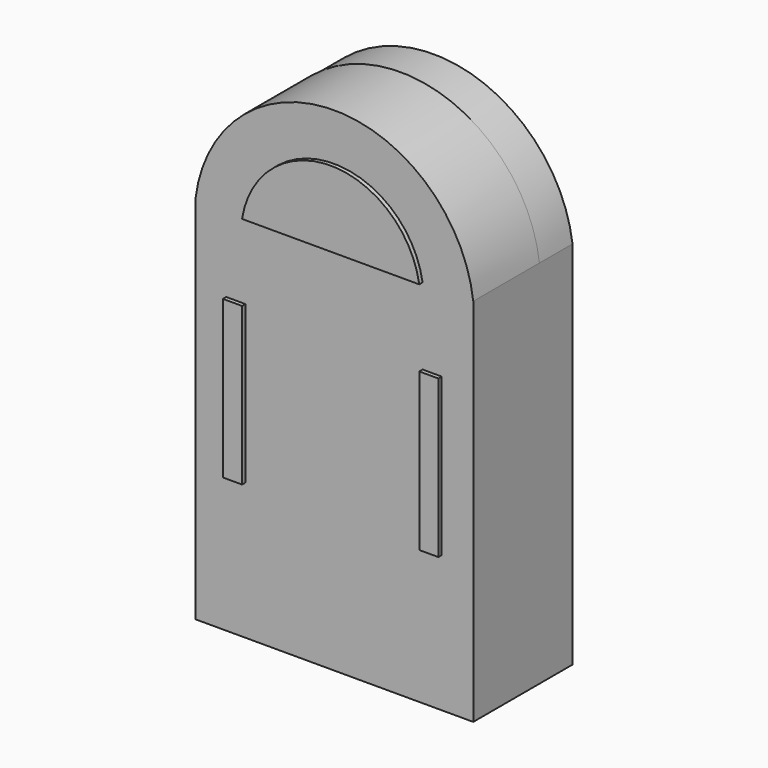
from build123d import *

# Parameters (mm, degrees)
F1_DEPTH = 25.4
F3_DEPTH = 12.7
F4_W     = 5.8812871575
F4_H     = 48.275558278
F4_W_2   = 5.8812852949
F5_DEPTH = 1.27
F7_DEPTH = 1.27


with BuildPart() as f1:
    # F0 (on Front) → F1 (new body)
    with BuildSketch(Plane.XZ):
        with BuildLine():
            Line((-42.643032968, 37.9803813994), (-42.643032968, 0))
            Line((-42.643032968, 0), (0, 0))
            Line((0, 0), (42.642146349, 0))
            Line((42.642146349, 0), (42.642146349, 37.9803813994))
            ThreePointArc((42.642146349, 37.9803813994), (-0.0004433095, 75.7243208105), (-42.643032968, 37.9803813994))
        make_face()
        Polygon((0, 0), (-42.643032968, 0), (-42.643032968, -75.733192265), (42.642146349, -75.733192265), (42.642146349, 0), align=None)
    extrude(amount=F1_DEPTH)

    # F2 (on face) → F3 (join)
    with BuildSketch(Plane(origin=(0, 0, 0), x_dir=(-1, 0, 0), z_dir=(0, 1, 0))):
        with BuildLine():
            ThreePointArc((42.643032968, 37.9803813994), (0.0004433095, 75.4104343916), (-42.642146349, 37.9803813994))
            Line((-42.642146349, 37.9803813994), (-42.642146349, -75.733192265))
            Line((-42.642146349, -75.733192265), (42.643032968, -75.733192265))
            Line((42.643032968, -75.733192265), (42.643032968, 37.9803813994))
        make_face()
    extrude(amount=F3_DEPTH)

    # F4 (on face) → F5 (join)
    with BuildSketch(Plane.XZ.offset(25.4)):
        with Locations((-30.264120549, -9.6796164289)):
            Rectangle(F4_W, F4_H)
        with Locations((30.0190644339, -9.6796164289)):
            Rectangle(F4_W_2, F4_H)
    extrude(amount=F5_DEPTH)

    # F6 (on face) → F7 (join)
    with BuildSketch(Plane.XZ.offset(25.4)):
        with BuildLine():
            ThreePointArc((27.0784217864, 37.9803813994), (-0.1225275919, 61.2469587983), (-27.3234769702, 37.9803813994))
            Line((-27.3234769702, 37.9803813994), (27.0784217864, 37.9803813994))
        make_face()
    extrude(amount=F7_DEPTH)


solid = f1.part
